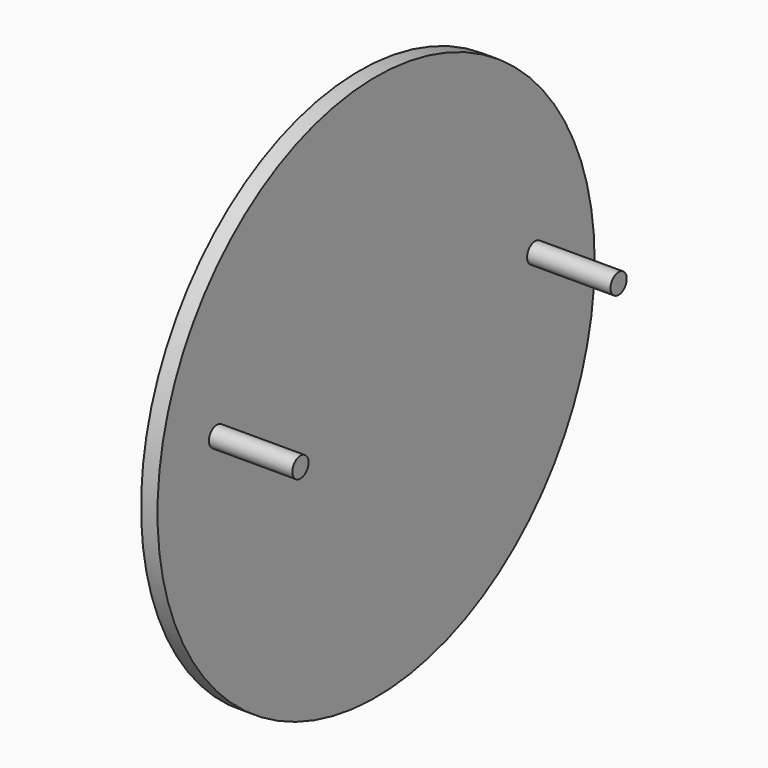
from build123d import *

# Parameters (mm, degrees)
F0_R     = 342.9
F1_DEPTH = 20.6375
F2_R     = 12.7
F3_DEPTH = 125.4125
F4_DEPTH = 38.1


with BuildPart() as f1:
    # F0 (on Right) → F1 (new body)
    with BuildSketch(Plane.YZ):
        Circle(F0_R)
    extrude(amount=-F1_DEPTH)

    # F2 (on face) → F3 (join)
    with BuildSketch(Plane(origin=(-20.6375, 0, 0), x_dir=(0, -1, 0), z_dir=(-1, 0, 0))):
        with Locations((249.618309, 46.975525)):
            Circle(F2_R)
        with Locations((-249.618309, 46.975525)):
            Circle(F2_R)
    extrude(amount=-F3_DEPTH)

    # F2 (on face) → F4 (join)
    with BuildSketch(Plane(origin=(-20.6375, 0, 0), x_dir=(0, -1, 0), z_dir=(-1, 0, 0))):
        with Locations((249.618309, 46.975525)):
            Circle(F2_R)
        with Locations((-249.618309, 46.975525)):
            Circle(F2_R)
    extrude(amount=F4_DEPTH)


solid = f1.part
